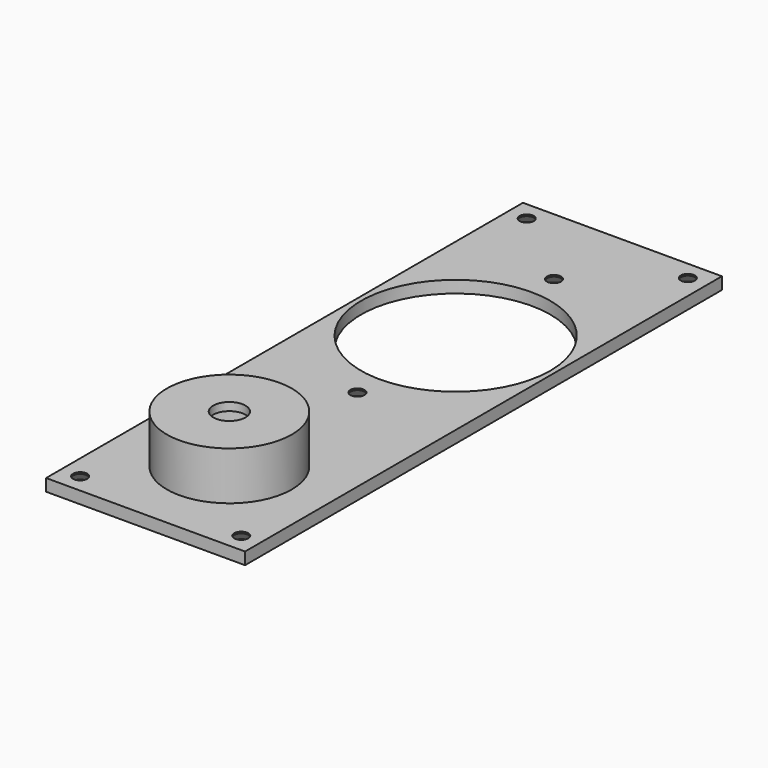
from build123d import *

# Parameters (mm, degrees)
SKETCH_W        = 49.4
SKETCH_H        = 148
SKETCH_R        = 1.75
SKETCH_R_2      = 23.5
SKETCH_R_3      = 13
PAD_DEPTH       = 3
CHAMFER_SIZE    = 2.6
SKETCH001_R     = 3.1
POCKET_DEPTH    = 2.1
SKETCH002_R     = 15.51
PAD001_DEPTH    = 15
SKETCH003_R     = 13
POCKET001_DEPTH = 13
SKETCH004_R     = 4
POCKET002_DEPTH = 15.001


with BuildPart() as part:
    # Sketch → Pad (new body)
    with BuildSketch(Plane.XY):
        with Locations((24.7, 74)):
            Rectangle(SKETCH_W, SKETCH_H)
        with Locations((24.7, 126.745966)):
            Circle(SKETCH_R, mode=Mode.SUBTRACT)
        with Locations((24.7, 65.745966)):
            Circle(SKETCH_R, mode=Mode.SUBTRACT)
        with Locations((24.7, 96.245966)):
            Circle(SKETCH_R_2, mode=Mode.SUBTRACT)
        with Locations((4.7, 143.3)):
            Circle(SKETCH_R, mode=Mode.SUBTRACT)
        with Locations((44.7, 143.3)):
            Circle(SKETCH_R, mode=Mode.SUBTRACT)
        with Locations((4.7, 4.7)):
            Circle(SKETCH_R, mode=Mode.SUBTRACT)
        with Locations((44.7, 4.7)):
            Circle(SKETCH_R, mode=Mode.SUBTRACT)
        with Locations((24.7, 26)):
            Circle(SKETCH_R_3, mode=Mode.SUBTRACT)
    extrude(amount=PAD_DEPTH)

    # Chamfer
    chamfer_edges = [part.edges().sort_by_distance(p)[0] for p in [
        (2.95, 4.7, 0),
        (42.95, 4.7, 0),
        (22.95, 65.745966, 0),
        (22.95, 126.745966, 0),
        (2.95, 143.3, 0),
        (42.95, 143.3, 0),
    ]]
    chamfer(chamfer_edges, length=CHAMFER_SIZE)

    # Sketch001 → Pocket (cut)
    with BuildSketch(Plane.XY):
        with Locations((24.7, 142)):
            Circle(SKETCH001_R)
        with Locations((24.7, 6)):
            Circle(SKETCH001_R)
        with Locations((43.4, 26)):
            Circle(SKETCH001_R)
        with Locations((6, 26)):
            Circle(SKETCH001_R)
        with Locations((6, 58)):
            Circle(SKETCH001_R)
        with Locations((43.159603, 58)):
            Circle(SKETCH001_R)
    extrude(amount=POCKET_DEPTH, mode=Mode.SUBTRACT)

    # Sketch002 → Pad001 (join)
    with BuildSketch(Plane.XY):
        with Locations((24.7, 26)):
            Circle(SKETCH002_R)
    extrude(amount=PAD001_DEPTH)

    # Sketch003 → Pocket001 (cut)
    with BuildSketch(Plane.XY):
        with Locations((24.7, 26)):
            Circle(SKETCH003_R)
    extrude(amount=POCKET001_DEPTH, mode=Mode.SUBTRACT)

    # Sketch004 → Pocket002 (cut, through all)
    with BuildSketch(Plane.XY):
        with Locations((24.7, 26)):
            Circle(SKETCH004_R)
    extrude(amount=POCKET002_DEPTH, mode=Mode.SUBTRACT)


solid = part.part
